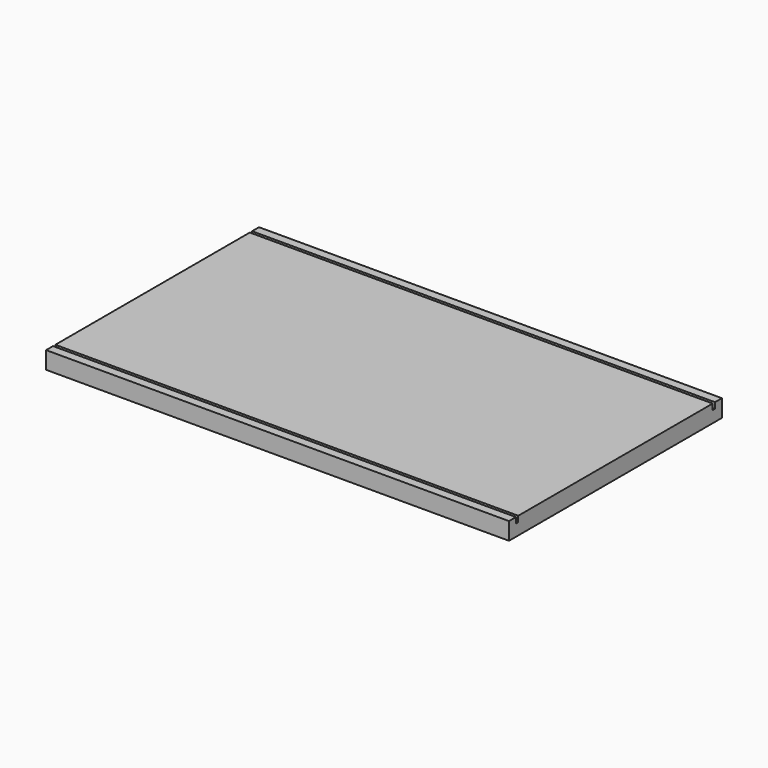
from build123d import *

# Parameters (mm, degrees)
SKETCH_W     = 508
SKETCH_H     = 292.1
PAD_DEPTH    = 19.05
BOX_W        = 508
BOX_H        = 3.175
BOX_DEPTH    = 6.35
BOX001_W     = 508
BOX001_H     = 3.175
BOX001_DEPTH = 6.35


with BuildPart() as part:
    # Sketch → Pad (new body)
    with BuildSketch(Plane.XY):
        Rectangle(SKETCH_W, SKETCH_H)
    extrude(amount=PAD_DEPTH)

    # Box → Box (cut)
    with BuildSketch(Plane(origin=(-254, -136.525, 12.7), x_dir=(1, 0, 0), z_dir=(0, 0, 1))):
        with Locations((254, 1.5875)):
            Rectangle(BOX_W, BOX_H)
    extrude(amount=BOX_DEPTH, mode=Mode.SUBTRACT)

    # Box001 → Box001 (cut)
    with BuildSketch(Plane(origin=(-254, 133.35, 12.7), x_dir=(1, 0, 0), z_dir=(0, 0, 1))):
        with Locations((254, 1.5875)):
            Rectangle(BOX001_W, BOX001_H)
    extrude(amount=BOX001_DEPTH, mode=Mode.SUBTRACT)


solid = part.part
